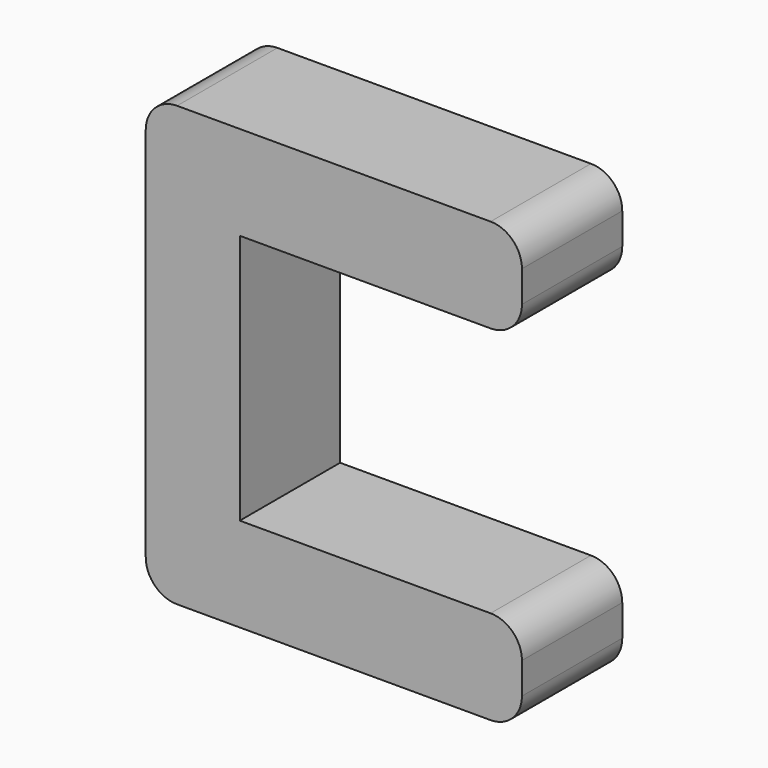
from build123d import *

# Parameters (mm, degrees)
BOX_W        = 60
BOX_H        = 20
BOX_DEPTH    = 15
BOX001_W     = 15
BOX001_H     = 20
BOX001_DEPTH = 70
BOX002_W     = 60
BOX002_H     = 20
BOX002_DEPTH = 15
FILLET_R     = 5


with BuildPart() as cube:
    # Box → Box (new body)
    with BuildSketch(Plane.XY):
        with Locations((30, 10)):
            Rectangle(BOX_W, BOX_H)
    extrude(amount=BOX_DEPTH)


with BuildPart() as cube001:
    # Box001 → Box001 (new body)
    with BuildSketch(Plane.XY):
        with Locations((7.5, 10)):
            Rectangle(BOX001_W, BOX001_H)
    extrude(amount=BOX001_DEPTH)


with BuildPart() as fillet_body:
    # Box002 → Box002 (new body)
    with BuildSketch(Plane.XY.offset(55)):
        with Locations((30, 10)):
            Rectangle(BOX002_W, BOX002_H)
    extrude(amount=BOX002_DEPTH)

    # Fusion: union Cube, Cube001
    add(cube.part)
    add(cube001.part)

    # Fillet
    fillet_edges = [fillet_body.edges().sort_by_distance(p)[0] for p in [
        (0, 10, 70),
        (60, 10, 70),
        (0, 10, 0),
        (60, 10, 55),
        (60, 10, 15),
        (60, 10, 0),
    ]]
    fillet(fillet_edges, radius=FILLET_R)


solid = fillet_body.part
